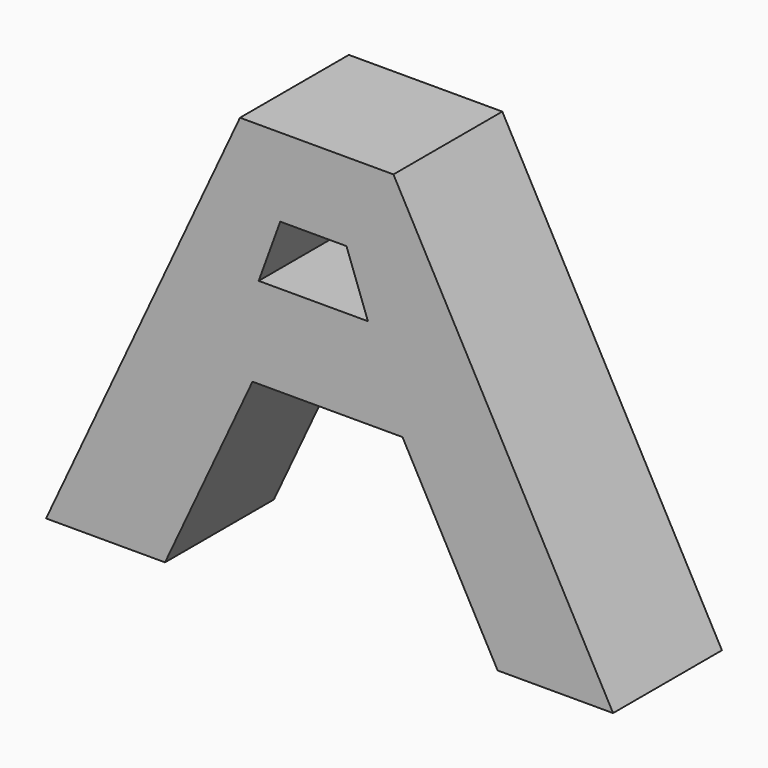
from build123d import *

# Parameters (mm, degrees)
F1_DEPTH = 25.4


with BuildPart() as f1:
    # F0 (on Front) → F1 (new body)
    with BuildSketch(Plane.XZ):
        Polygon((-11.412839, 43.004113), (-47.613019, -34.627423), (-25.406242, -34.627423), (-9.081334, 0.381454), (18.921843, 0.381454), (36.686134, -32.201932), (58.23868, -32.201932), (17.236739, 43.004113), align=None)
        Polygon((-7.921455, 17.322859), (-3.90137, 28.367954), (8.457227, 28.367954), (12.477313, 17.322859), align=None, mode=Mode.SUBTRACT)
    extrude(amount=F1_DEPTH)


solid = f1.part
